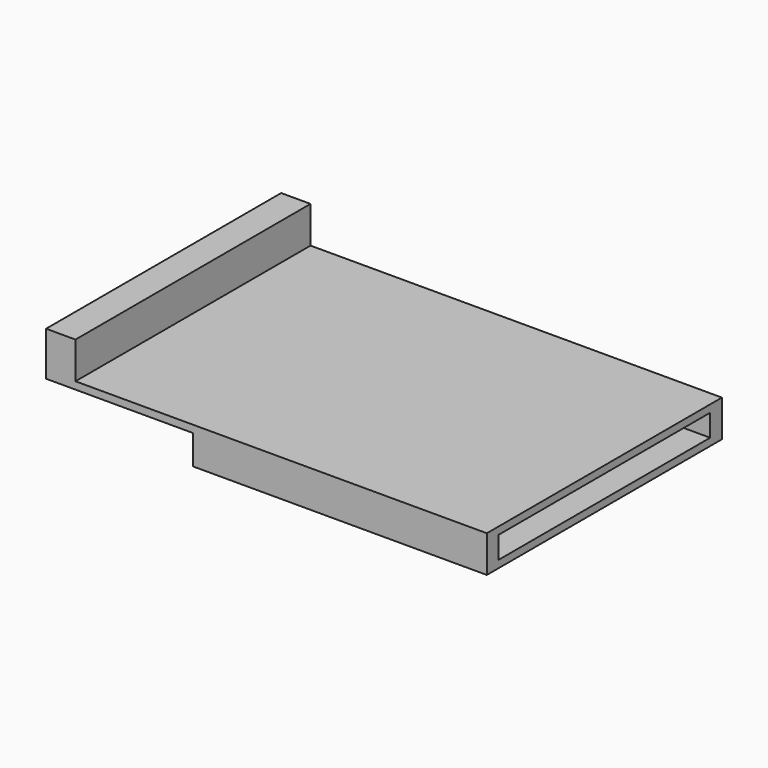
from build123d import *

# Parameters (mm, degrees)
BOX001_W     = 20
BOX001_H     = 200
BOX001_DEPTH = 30
BOX002_W     = 200
BOX002_H     = 10
BOX002_DEPTH = 20
BOX003_W     = 200
BOX003_H     = 10
BOX003_DEPTH = 20
BOX004_W     = 300
BOX004_H     = 200
BOX004_DEPTH = 5
BOX_W        = 200
BOX_H        = 200
BOX_DEPTH    = 5


with BuildPart() as cube001:
    # Box001 → Box001 (new body)
    with BuildSketch(Plane.XY):
        with Locations((10, 100)):
            Rectangle(BOX001_W, BOX001_H)
    extrude(amount=BOX001_DEPTH)


with BuildPart() as cube002:
    # Box002 → Box002 (new body)
    with BuildSketch(Plane(origin=(100, 190, -20), x_dir=(1, 0, 0), z_dir=(0, 0, 1))):
        with Locations((100, 5)):
            Rectangle(BOX002_W, BOX002_H)
    extrude(amount=BOX002_DEPTH)


with BuildPart() as cube003:
    # Box003 → Box003 (new body)
    with BuildSketch(Plane(origin=(100, 0, -20), x_dir=(1, 0, 0), z_dir=(0, 0, 1))):
        with Locations((100, 5)):
            Rectangle(BOX003_W, BOX003_H)
    extrude(amount=BOX003_DEPTH)


with BuildPart() as cube004:
    # Box004 → Box004 (new body)
    with BuildSketch(Plane.XY):
        with Locations((150, 100)):
            Rectangle(BOX004_W, BOX004_H)
    extrude(amount=BOX004_DEPTH)


with BuildPart() as fusion:
    # Box → Box (new body)
    with BuildSketch(Plane(origin=(100, 0, -20), x_dir=(1, 0, 0), z_dir=(0, 0, 1))):
        with Locations((100, 100)):
            Rectangle(BOX_W, BOX_H)
    extrude(amount=BOX_DEPTH)

    # Fusion: union Cube001, Cube002, Cube003, Cube004
    add(cube001.part)
    add(cube002.part)
    add(cube003.part)
    add(cube004.part)


solid = fusion.part
